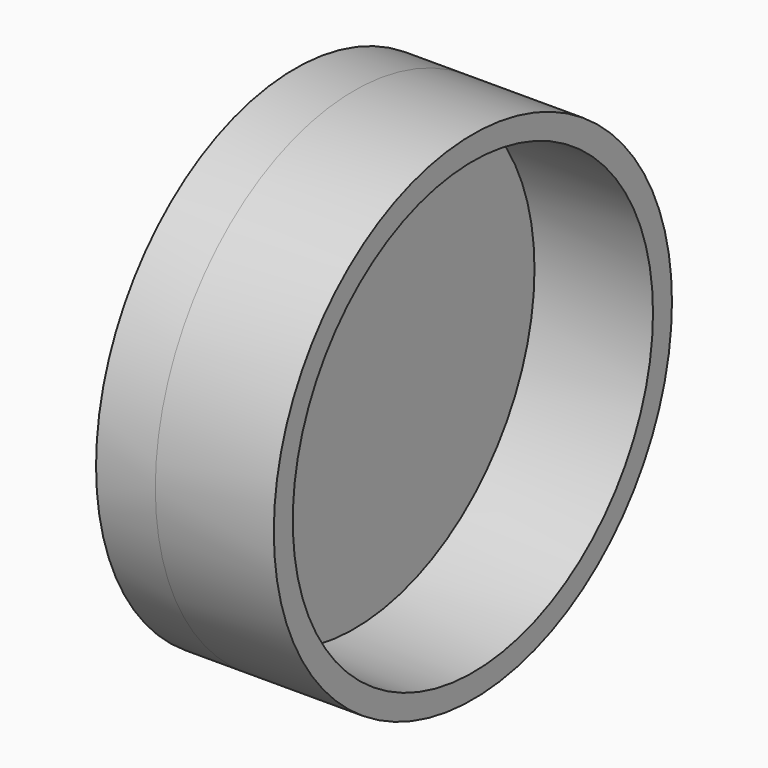
from build123d import *

# Parameters (mm, degrees)
F0_R     = 53.34
F0_R_2   = 48.26
F1_DEPTH = 12.7
F2_DEPTH = 25.4


with BuildPart() as f1:
    # F0 (on Right) → F1 (new body)
    with BuildSketch(Plane.YZ):
        Circle(F0_R)
        Circle(F0_R_2, mode=Mode.SUBTRACT)
        Circle(F0_R_2)
    extrude(amount=-F1_DEPTH)

    # F0 (on Right) → F2 (join)
    with BuildSketch(Plane.YZ):
        Circle(F0_R)
        Circle(F0_R_2, mode=Mode.SUBTRACT)
    extrude(amount=F2_DEPTH)


solid = f1.part
